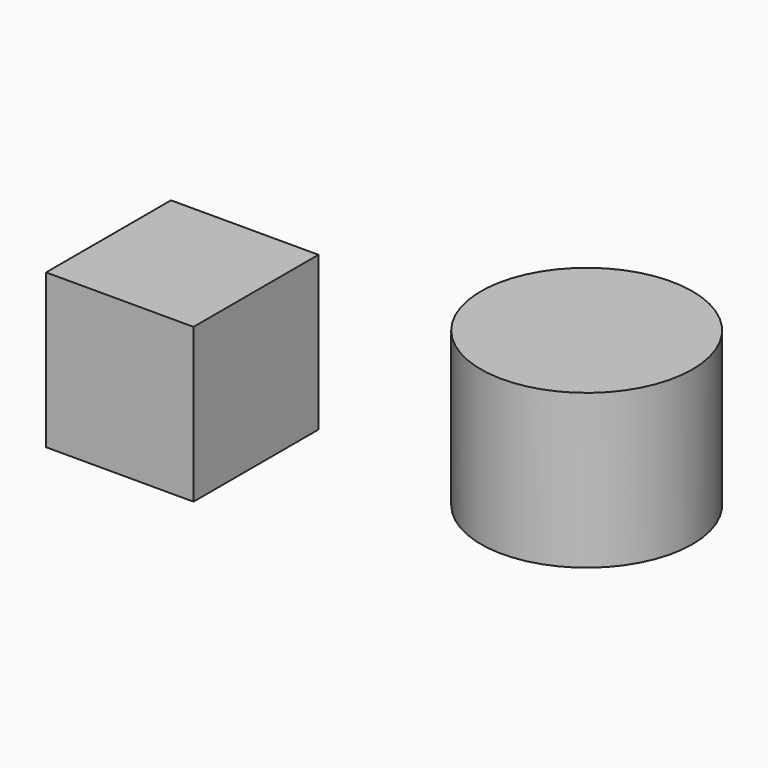
from build123d import *

# Parameters (mm, degrees)
F0_W     = 67.040946
F0_H     = 71.007516
F0_R     = 48.106438
F1_DEPTH = 70


with BuildPart() as f1:
    # F0 (on Top) → F1 (new body)
    with BuildSketch(Plane.XY):
        with Locations((-84.528351, -12.081677)):
            Rectangle(F0_W, F0_H)
        with Locations((59.680231, 37.545782)):
            Circle(F0_R)
    extrude(amount=F1_DEPTH)


solid = f1.part
